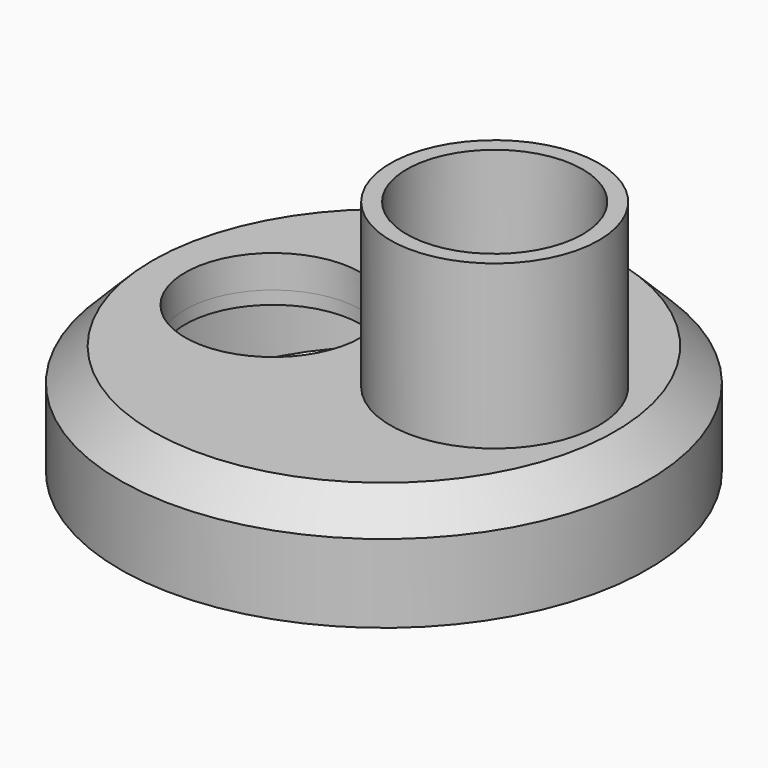
from build123d import *

# Parameters (mm, degrees)
F2_R      = 13.5
F3_DEPTH  = 25
F4_SIZE   = 5
F5_R      = 35.25
F5_R_2    = 13.5
F6_DEPTH  = 12
F7_R      = 32.5
F7_R_2    = 13.5
F8_DEPTH  = 10
F9_R      = 16
F9_R_2    = 13.5
F10_DEPTH = 25


with BuildPart() as f1:
    # F0 (on Front) → F1 (revolve)
    with BuildSketch(Plane.XZ):
        Polygon((-40.5, 17), (-40.5, 0), (-35.5, 0), (-35.5, 12), (0, 12), (0, 17), align=None)
    revolve(axis=Axis((0, 0, 14.5), (0, 0, -1)))

    # F2 (on face) → F3 (cut)
    with BuildSketch(Plane(origin=(0, 0, 12), x_dir=(1, 0, 0), z_dir=(0, 0, -1))):
        with Locations((-17, 0)):
            Circle(F2_R)
        with Locations((17, 0)):
            Circle(F2_R)
    extrude(amount=-F3_DEPTH, mode=Mode.SUBTRACT)

    # F4
    f4_edges = [f1.edges().sort_by_distance(p)[0] for p in [
        (40.5, 0, 17),
    ]]
    chamfer(f4_edges, length=F4_SIZE)

    # F9 (on face) → F10 (join)
    with BuildSketch(Plane.XY.offset(17)):
        with Locations((17, 0)):
            Circle(F9_R)
        with Locations((17, 0)):
            Circle(F9_R_2, mode=Mode.SUBTRACT)
        with Locations((17, 0)):
            Circle(F9_R)
        with Locations((17, 0)):
            Circle(F9_R_2, mode=Mode.SUBTRACT)
    extrude(amount=F10_DEPTH)


with BuildPart() as f6:
    # F5 (on face) → F6 (new body)
    with BuildSketch(Plane(origin=(0, 0, 12), x_dir=(1, 0, 0), z_dir=(0, 0, -1))):
        Circle(F5_R)
        with Locations((-17, 0)):
            Circle(F5_R_2, mode=Mode.SUBTRACT)
        with Locations((17, 0)):
            Circle(F5_R_2, mode=Mode.SUBTRACT)
        Circle(F5_R)
        with Locations((-17, 0)):
            Circle(F5_R_2, mode=Mode.SUBTRACT)
    extrude(amount=F6_DEPTH)

    # F7 (on face) → F8 (cut)
    with BuildSketch(Plane(origin=(0, 0, 0), x_dir=(1, 0, 0), z_dir=(0, 0, -1))):
        Circle(F7_R)
        Circle(F7_R)
        with Locations((-17, 0)):
            Circle(F7_R_2, mode=Mode.SUBTRACT)
    extrude(amount=-F8_DEPTH, mode=Mode.SUBTRACT)


solid = Compound([f1.part, f6.part])
